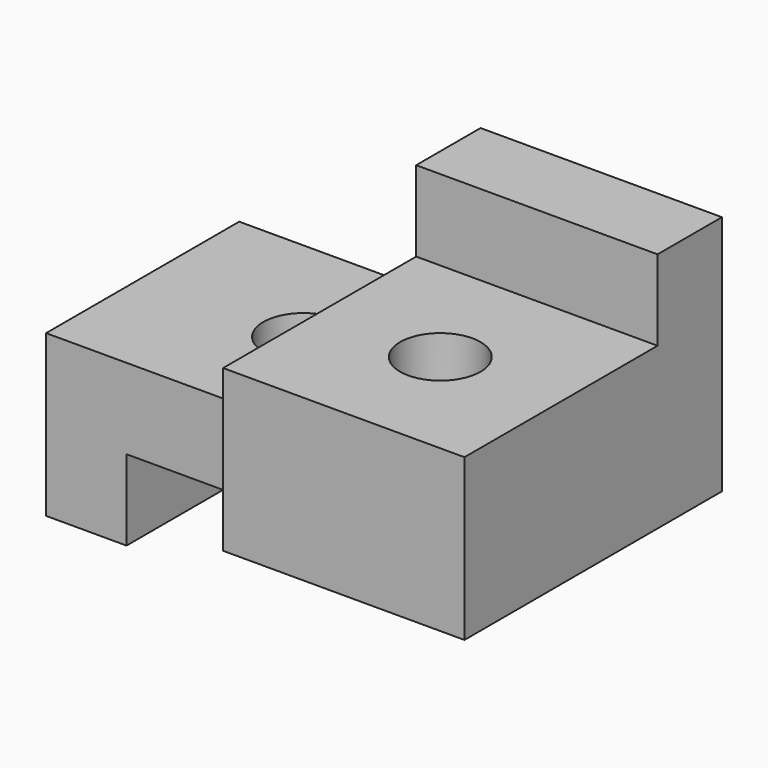
from build123d import *

# Parameters (mm, degrees)
F0_W     = 6.35
F0_H     = 19.05
F1_DEPTH = 6.35
F2_DEPTH = 6.35
F0_R     = 3.175
F3_DEPTH = 6.35
F4_DEPTH = 12.7
F0_W_2   = 19.05
F0_H_2   = 6.35
F5_DEPTH = 19.05


with BuildPart() as f1:
    # F0 (on Top) → F1 (new body)
    with BuildSketch(Plane.XY):
        with Locations((-15.875, 3.175)):
            Rectangle(F0_W, F0_H)
    extrude(amount=-F1_DEPTH)

    # F0 (on Top) → F2 (join)
    with BuildSketch(Plane.XY):
        with Locations((-15.875, 3.175)):
            Rectangle(F0_W, F0_H)
    extrude(amount=F2_DEPTH)

    # F0 (on Top) → F3 (join)
    with BuildSketch(Plane.XY):
        Polygon((0, 12.7), (-12.7, 12.7), (-12.7, -6.35), (0, -6.35), (0, 6.35), align=None)
        with Locations((-6.35, 3.175)):
            Circle(F0_R, mode=Mode.SUBTRACT)
    extrude(amount=F3_DEPTH)

    # F0 (on Top) → F4 (join)
    with BuildSketch(Plane.XY):
        Polygon((19.05, 6.35), (0, 6.35), (0, -6.35), (0, -12.7), (19.05, -12.7), align=None)
        with Locations((9.525, -3.175)):
            Circle(F0_R, mode=Mode.SUBTRACT)
    extrude(amount=F4_DEPTH)

    # F0 (on Top) → F5 (join)
    with BuildSketch(Plane.XY):
        with Locations((9.525, 9.525)):
            Rectangle(F0_W_2, F0_H_2)
    extrude(amount=F5_DEPTH)


solid = f1.part
